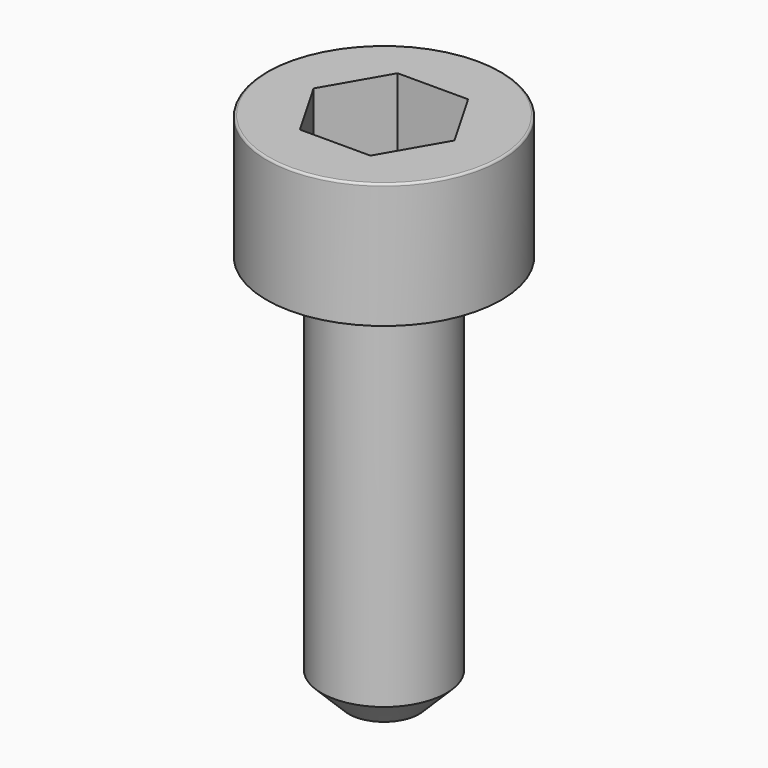
from build123d import *

# Parameters (mm, degrees)
POCKET_DEPTH = 1.56


with BuildPart() as part:
    # Sketch → Revolve (revolve)
    with BuildSketch(Plane.YZ):
        with BuildLine():
            Line((0.799, 0), (1.5, 0))
            Line((1.5, 0), (1.5, 1.57229))
            ThreePointArc((1.5, 1.57229), (1.491884, 1.591884), (1.47229, 1.6))
            Line((1.47229, 1.6), (0, 1.6))
            Line((0, -5), (0, 1.6))
            Line((0.45, -5), (0, -5))
            Line((0.8, -4.65), (0.45, -5))
            Line((0.8, -0.2), (0.8, -4.65))
            Line((0.799, 0), (0.8, -0.2))
        make_face()
    revolve(axis=Axis((0, 0, 0), (0, 0, 1)))

    # Sketch001 → Pocket (cut)
    with BuildSketch(Plane.XY.offset(1.6)):
        Polygon((0.900666, 0), (0.450333, 0.78), (-0.450333, 0.78), (-0.900666, 0), (-0.450333, -0.78), (0.450333, -0.78), align=None)
    extrude(amount=-POCKET_DEPTH, mode=Mode.SUBTRACT)


solid = part.part
